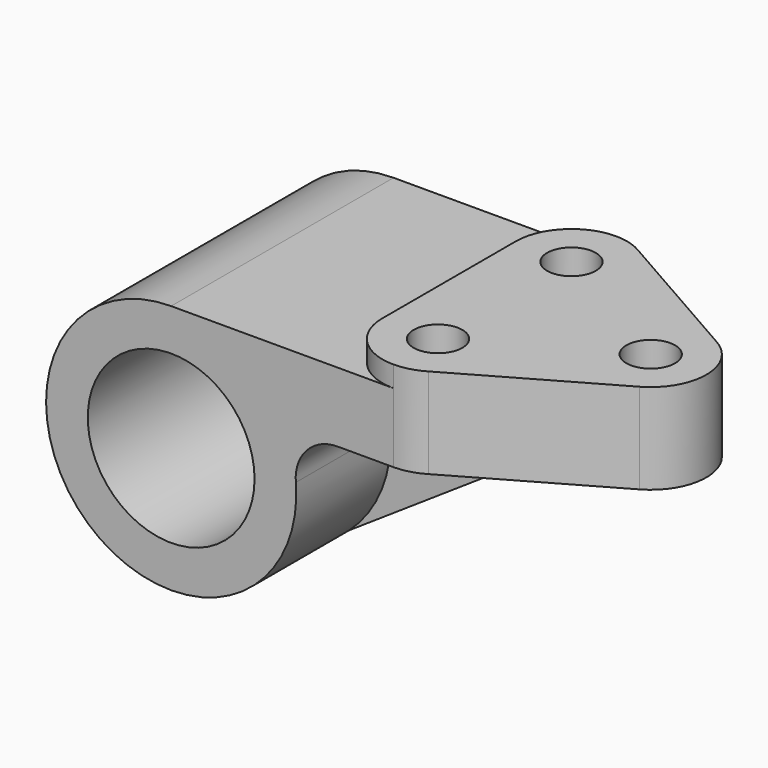
from build123d import *

# Parameters (mm, degrees)
F0_R     = 19.05
F1_DEPTH = 31.75
F2_DEPTH = 4.7625
F4_DEPTH = 4.7752
F3_R     = 5.5626
F5_DEPTH = 61.9262


with BuildPart() as f1:
    # F0 (on Front) → F1 (new body, symmetric)
    with BuildSketch(Plane.XZ):
        with BuildLine():
            Line((37.967478, 28.575), (0, 28.575))
            ThreePointArc((0, 28.575), (-26.693975, -10.196191), (19.05, -21.298547))
            ThreePointArc((19.05, -21.298547), (26.549088, -10.567713), (28.475608, 2.38125))
            ThreePointArc((28.475608, 2.38125), (30.957268, 9.623455), (37.967478, 12.7))
            Line((37.967478, 12.7), (69.85, 12.7))
            Line((69.85, 12.7), (101.727, 12.7))
            Line((101.727, 12.7), (101.727, 33.3502))
            Line((101.727, 33.3502), (37.967478, 33.3502))
            Line((37.967478, 33.3502), (37.967478, 28.575))
        make_face()
        Circle(F0_R, mode=Mode.SUBTRACT)
    extrude(amount=F1_DEPTH, both=True)

    # F0 (on Front) → F2 (join, symmetric)
    with BuildSketch(Plane.XZ):
        with BuildLine():
            ThreePointArc((28.475608, 2.38125), (26.549088, -10.567713), (19.05, -21.298547))
            Line((19.05, -21.298547), (69.85, 12.7))
            Line((69.85, 12.7), (37.967478, 12.7))
            ThreePointArc((37.967478, 12.7), (30.957268, 9.623455), (28.475608, 2.38125))
        make_face()
    extrude(amount=F2_DEPTH, both=True)

    # F3 (on face) → F4 (cut)
    with BuildSketch(Plane.XY.offset(33.3502)):
        with BuildLine():
            ThreePointArc((38.1, 19.05), (41.819744, 28.030256), (50.8, 31.75))
            Line((50.8, 31.75), (37.967478, 31.75))
            Line((37.967478, 31.75), (37.967478, -31.75))
            Line((37.967478, -31.75), (50.8, -31.75))
            ThreePointArc((50.8, -31.75), (41.819744, -28.030256), (38.1, -19.05))
            Line((38.1, -19.05), (38.1, 19.05))
        make_face()
    extrude(amount=-F4_DEPTH, mode=Mode.SUBTRACT)

    # F3 (on face) → F5 (cut, through all)
    with BuildSketch(Plane.XY.offset(33.3502)):
        with Locations((50.8, 19.05)):
            Circle(F3_R)
        with Locations((50.8, -19.05)):
            Circle(F3_R)
        with Locations((84.1502, 0)):
            Circle(F3_R)
        with BuildLine():
            ThreePointArc((50.8, 31.75), (54.206472, 31.284621), (57.36329, 29.922591))
            Line((57.36329, 29.922591), (90.448286, 11.028332))
            ThreePointArc((90.448286, 11.028332), (96.8502, 0), (90.448286, -11.028332))
            Line((90.448286, -11.028332), (57.36329, -29.922591))
            ThreePointArc((57.36329, -29.922591), (54.206472, -31.284621), (50.8, -31.75))
            Line((50.8, -31.75), (101.727, -31.75))
            Line((101.727, -31.75), (101.727, 31.75))
            Line((101.727, 31.75), (50.8, 31.75))
        make_face()
    extrude(amount=-F5_DEPTH, mode=Mode.SUBTRACT)


solid = f1.part
